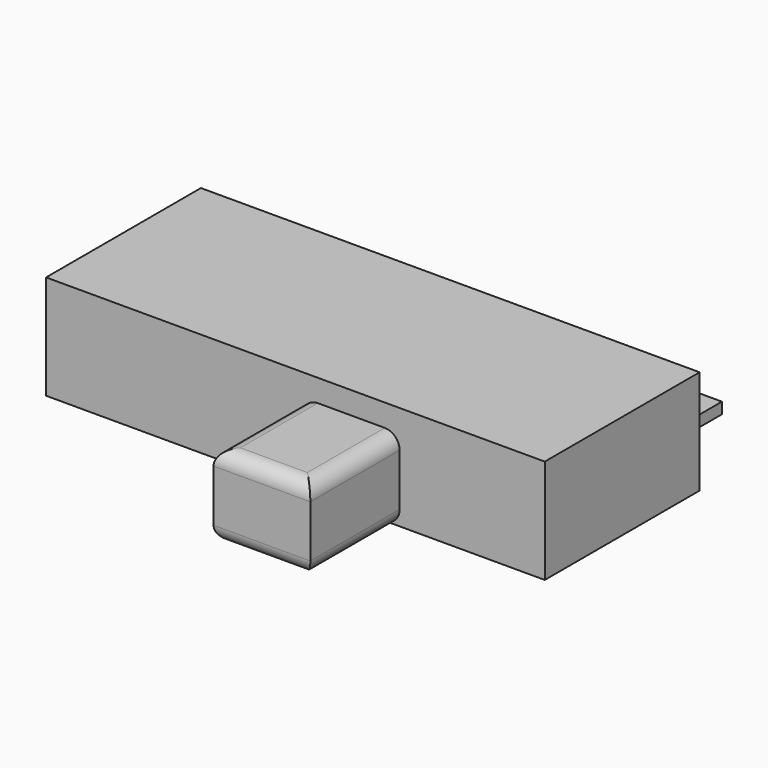
from build123d import *

# Parameters (mm, degrees)
SKETCH_W     = 6.7
SKETCH_H     = 2.6
PAD_DEPTH    = 1.4
SKETCH001_W  = 0.4
SKETCH001_H  = 1.5
PAD001_DEPTH = 0.15
SKETCH002_W  = 1.3
SKETCH002_H  = 1.5
PAD002_DEPTH = 1.1
FILLET_R     = 0.2
FILLET001_R  = 0.2


with BuildPart() as pad:
    # Sketch → Pad (new body)
    with BuildSketch(Plane.XY):
        Rectangle(SKETCH_W, SKETCH_H)
    extrude(amount=PAD_DEPTH)


with BuildPart() as pad001:
    # Sketch001 → Pad001 (new body)
    with BuildSketch(Plane.XY):
        with Locations((-2.25, 2.05)):
            Rectangle(SKETCH001_W, SKETCH001_H)
        with Locations((0.75, 2.05)):
            Rectangle(SKETCH001_W, SKETCH001_H)
        with Locations((2.25, 2.05)):
            Rectangle(SKETCH001_W, SKETCH001_H)
    extrude(amount=PAD001_DEPTH)


with BuildPart() as fillet001:
    # Sketch002 → Pad002 (new body)
    with BuildSketch(Plane.XY):
        with Locations((0.75, -2.05)):
            Rectangle(SKETCH002_W, SKETCH002_H)
    extrude(amount=PAD002_DEPTH)

    # Fillet
    fillet_edges = [fillet001.edges().sort_by_distance(p)[0] for p in [
        (1.4, -2.05, 1.1),
        (0.75, -2.8, 1.1),
        (0.1, -2.05, 1.1),
    ]]
    fillet(fillet_edges, radius=FILLET_R)

    # Fillet001
    fillet001_edges = [fillet001.edges().sort_by_distance(p)[0] for p in [
        (1.4, -2.05, 0),
        (0.75, -2.8, 0),
        (0.1, -2.05, 0),
    ]]
    fillet(fillet001_edges, radius=FILLET001_R)


solid = Compound([pad.part, pad001.part, fillet001.part])
